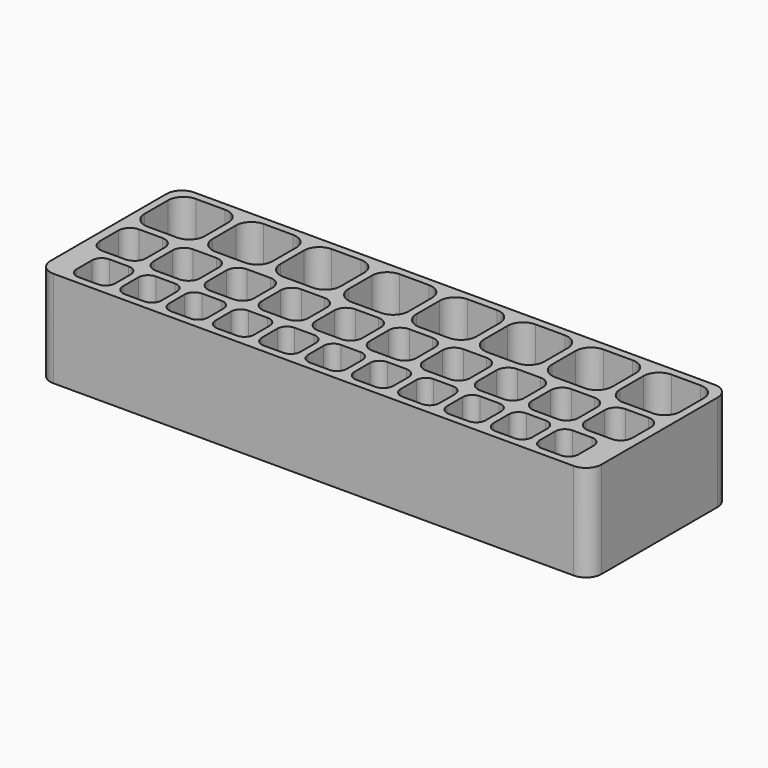
from build123d import *

# Parameters (mm, degrees)
F0_W     = 181.356
F0_H     = 57.912
F0_W_2   = 12.7
F0_H_2   = 12.7
F0_W_3   = 15.24
F0_H_3   = 15.24
F0_W_4   = 19.812
F0_H_4   = 19.812
F1_DEPTH = 31.75
F2_DEPTH = 25.4
F3_R     = 5.08
F4_R     = 3.81
F5_R     = 3.175
F6_R     = 2.54
F7_R     = 5.08


with BuildPart() as f1:
    # F0 (on Top) → F1 (new body)
    with BuildSketch(Plane.XY):
        Rectangle(F0_W, F0_H)
        with Locations((-76.2, -20.066)):
            Rectangle(F0_W_2, F0_H_2, mode=Mode.SUBTRACT)
        with Locations((-60.96, -20.066)):
            Rectangle(F0_W_2, F0_H_2, mode=Mode.SUBTRACT)
        with Locations((-45.72, -20.066)):
            Rectangle(F0_W_2, F0_H_2, mode=Mode.SUBTRACT)
        with Locations((-30.48, -20.066)):
            Rectangle(F0_W_2, F0_H_2, mode=Mode.SUBTRACT)
        with Locations((-15.24, -20.066)):
            Rectangle(F0_W_2, F0_H_2, mode=Mode.SUBTRACT)
        with Locations((0, -20.066)):
            Rectangle(F0_W_2, F0_H_2, mode=Mode.SUBTRACT)
        with Locations((-80.01, -3.556)):
            Rectangle(F0_W_3, F0_H_3, mode=Mode.SUBTRACT)
        with Locations((-62.23, -3.556)):
            Rectangle(F0_W_3, F0_H_3, mode=Mode.SUBTRACT)
        with Locations((-44.45, -3.556)):
            Rectangle(F0_W_3, F0_H_3, mode=Mode.SUBTRACT)
        with Locations((-26.67, -3.556)):
            Rectangle(F0_W_3, F0_H_3, mode=Mode.SUBTRACT)
        with Locations((-8.89, -3.556)):
            Rectangle(F0_W_3, F0_H_3, mode=Mode.SUBTRACT)
        with Locations((15.24, -20.066)):
            Rectangle(F0_W_2, F0_H_2, mode=Mode.SUBTRACT)
        with Locations((30.48, -20.066)):
            Rectangle(F0_W_2, F0_H_2, mode=Mode.SUBTRACT)
        with Locations((45.72, -20.066)):
            Rectangle(F0_W_2, F0_H_2, mode=Mode.SUBTRACT)
        with Locations((60.96, -20.066)):
            Rectangle(F0_W_2, F0_H_2, mode=Mode.SUBTRACT)
        with Locations((76.2, -20.066)):
            Rectangle(F0_W_2, F0_H_2, mode=Mode.SUBTRACT)
        with Locations((8.89, -3.556)):
            Rectangle(F0_W_3, F0_H_3, mode=Mode.SUBTRACT)
        with Locations((26.67, -3.556)):
            Rectangle(F0_W_3, F0_H_3, mode=Mode.SUBTRACT)
        with Locations((44.45, -3.556)):
            Rectangle(F0_W_3, F0_H_3, mode=Mode.SUBTRACT)
        with Locations((62.23, -3.556)):
            Rectangle(F0_W_3, F0_H_3, mode=Mode.SUBTRACT)
        with Locations((80.01, -3.556)):
            Rectangle(F0_W_3, F0_H_3, mode=Mode.SUBTRACT)
        with Locations((-78.232, 16.51)):
            Rectangle(F0_W_4, F0_H_4, mode=Mode.SUBTRACT)
        with Locations((-55.88, 16.51)):
            Rectangle(F0_W_4, F0_H_4, mode=Mode.SUBTRACT)
        with Locations((-33.528, 16.51)):
            Rectangle(F0_W_4, F0_H_4, mode=Mode.SUBTRACT)
        with Locations((-11.176, 16.51)):
            Rectangle(F0_W_4, F0_H_4, mode=Mode.SUBTRACT)
        with Locations((11.176, 16.51)):
            Rectangle(F0_W_4, F0_H_4, mode=Mode.SUBTRACT)
        with Locations((33.528, 16.51)):
            Rectangle(F0_W_4, F0_H_4, mode=Mode.SUBTRACT)
        with Locations((55.88, 16.51)):
            Rectangle(F0_W_4, F0_H_4, mode=Mode.SUBTRACT)
        with Locations((78.232, 16.51)):
            Rectangle(F0_W_4, F0_H_4, mode=Mode.SUBTRACT)
        with Locations((-78.232, 16.51)):
            Rectangle(F0_W_4, F0_H_4)
        with Locations((-55.88, 16.51)):
            Rectangle(F0_W_4, F0_H_4)
        with Locations((-33.528, 16.51)):
            Rectangle(F0_W_4, F0_H_4)
        with Locations((-11.176, 16.51)):
            Rectangle(F0_W_4, F0_H_4)
        with Locations((11.176, 16.51)):
            Rectangle(F0_W_4, F0_H_4)
        with Locations((33.528, 16.51)):
            Rectangle(F0_W_4, F0_H_4)
        with Locations((55.88, 16.51)):
            Rectangle(F0_W_4, F0_H_4)
        with Locations((78.232, 16.51)):
            Rectangle(F0_W_4, F0_H_4)
        with Locations((-80.01, -3.556)):
            Rectangle(F0_W_3, F0_H_3)
        with Locations((-62.23, -3.556)):
            Rectangle(F0_W_3, F0_H_3)
        with Locations((-44.45, -3.556)):
            Rectangle(F0_W_3, F0_H_3)
        with Locations((-26.67, -3.556)):
            Rectangle(F0_W_3, F0_H_3)
        with Locations((-8.89, -3.556)):
            Rectangle(F0_W_3, F0_H_3)
        with Locations((8.89, -3.556)):
            Rectangle(F0_W_3, F0_H_3)
        with Locations((26.67, -3.556)):
            Rectangle(F0_W_3, F0_H_3)
        with Locations((44.45, -3.556)):
            Rectangle(F0_W_3, F0_H_3)
        with Locations((62.23, -3.556)):
            Rectangle(F0_W_3, F0_H_3)
        with Locations((80.01, -3.556)):
            Rectangle(F0_W_3, F0_H_3)
        with Locations((-76.2, -20.066)):
            Rectangle(F0_W_2, F0_H_2)
        with Locations((-60.96, -20.066)):
            Rectangle(F0_W_2, F0_H_2)
        with Locations((-45.72, -20.066)):
            Rectangle(F0_W_2, F0_H_2)
        with Locations((-30.48, -20.066)):
            Rectangle(F0_W_2, F0_H_2)
        with Locations((-15.24, -20.066)):
            Rectangle(F0_W_2, F0_H_2)
        with Locations((0, -20.066)):
            Rectangle(F0_W_2, F0_H_2)
        with Locations((15.24, -20.066)):
            Rectangle(F0_W_2, F0_H_2)
        with Locations((30.48, -20.066)):
            Rectangle(F0_W_2, F0_H_2)
        with Locations((45.72, -20.066)):
            Rectangle(F0_W_2, F0_H_2)
        with Locations((60.96, -20.066)):
            Rectangle(F0_W_2, F0_H_2)
        with Locations((76.2, -20.066)):
            Rectangle(F0_W_2, F0_H_2)
    extrude(amount=-F1_DEPTH)

    # F0 (on Top) → F2 (cut)
    with BuildSketch(Plane.XY):
        with Locations((-76.2, -20.066)):
            Rectangle(F0_W_2, F0_H_2)
        with Locations((-60.96, -20.066)):
            Rectangle(F0_W_2, F0_H_2)
        with Locations((-80.01, -3.556)):
            Rectangle(F0_W_3, F0_H_3)
        with Locations((-62.23, -3.556)):
            Rectangle(F0_W_3, F0_H_3)
        with Locations((-44.45, -3.556)):
            Rectangle(F0_W_3, F0_H_3)
        with Locations((-45.72, -20.066)):
            Rectangle(F0_W_2, F0_H_2)
        with Locations((-30.48, -20.066)):
            Rectangle(F0_W_2, F0_H_2)
        with Locations((-15.24, -20.066)):
            Rectangle(F0_W_2, F0_H_2)
        with Locations((-26.67, -3.556)):
            Rectangle(F0_W_3, F0_H_3)
        with Locations((-8.89, -3.556)):
            Rectangle(F0_W_3, F0_H_3)
        with Locations((0, -20.066)):
            Rectangle(F0_W_2, F0_H_2)
        with Locations((15.24, -20.066)):
            Rectangle(F0_W_2, F0_H_2)
        with Locations((8.89, -3.556)):
            Rectangle(F0_W_3, F0_H_3)
        with Locations((26.67, -3.556)):
            Rectangle(F0_W_3, F0_H_3)
        with Locations((30.48, -20.066)):
            Rectangle(F0_W_2, F0_H_2)
        with Locations((45.72, -20.066)):
            Rectangle(F0_W_2, F0_H_2)
        with Locations((44.45, -3.556)):
            Rectangle(F0_W_3, F0_H_3)
        with Locations((62.23, -3.556)):
            Rectangle(F0_W_3, F0_H_3)
        with Locations((60.96, -20.066)):
            Rectangle(F0_W_2, F0_H_2)
        with Locations((76.2, -20.066)):
            Rectangle(F0_W_2, F0_H_2)
        with Locations((80.01, -3.556)):
            Rectangle(F0_W_3, F0_H_3)
        with Locations((78.232, 16.51)):
            Rectangle(F0_W_4, F0_H_4)
        with Locations((55.88, 16.51)):
            Rectangle(F0_W_4, F0_H_4)
        with Locations((33.528, 16.51)):
            Rectangle(F0_W_4, F0_H_4)
        with Locations((11.176, 16.51)):
            Rectangle(F0_W_4, F0_H_4)
        with Locations((-11.176, 16.51)):
            Rectangle(F0_W_4, F0_H_4)
        with Locations((-33.528, 16.51)):
            Rectangle(F0_W_4, F0_H_4)
        with Locations((-55.88, 16.51)):
            Rectangle(F0_W_4, F0_H_4)
        with Locations((-78.232, 16.51)):
            Rectangle(F0_W_4, F0_H_4)
    extrude(amount=-F2_DEPTH, mode=Mode.SUBTRACT)

    # F3
    f3_edges = [f1.edges().sort_by_distance(p)[0] for p in [
        (-21.082, 26.416, -12.7),
        (-43.434, 26.416, -12.7),
        (-65.786, 26.416, -12.7),
        (-88.138, 26.416, -12.7),
        (1.27, 26.416, -12.7),
        (23.622, 26.416, -12.7),
        (45.974, 26.416, -12.7),
        (68.326, 26.416, -12.7),
        (88.138, 26.416, -12.7),
        (65.786, 26.416, -12.7),
        (43.434, 26.416, -12.7),
        (21.082, 26.416, -12.7),
        (-1.27, 26.416, -12.7),
        (-23.622, 26.416, -12.7),
        (-68.326, 26.416, -12.7),
        (-68.326, 6.604, -12.7),
        (-45.974, 6.604, -12.7),
        (-23.622, 6.604, -12.7),
        (-1.27, 6.604, -12.7),
        (21.082, 6.604, -12.7),
        (43.434, 6.604, -12.7),
        (65.786, 6.604, -12.7),
        (88.138, 6.604, -12.7),
        (68.326, 6.604, -12.7),
        (45.974, 6.604, -12.7),
        (23.622, 6.604, -12.7),
        (1.27, 6.604, -12.7),
        (-21.082, 6.604, -12.7),
        (-43.434, 6.604, -12.7),
        (-65.786, 6.604, -12.7),
        (-88.138, 6.604, -12.7),
        (-45.974, 26.416, -12.7),
    ]]
    fillet(f3_edges, radius=F3_R)

    # F4
    f4_edges = [f1.edges().sort_by_distance(p)[0] for p in [
        (-72.39, 4.064, -12.7),
        (-54.61, 4.064, -12.7),
        (-36.83, 4.064, -12.7),
        (-19.05, 4.064, -12.7),
        (-1.27, 4.064, -12.7),
        (16.51, 4.064, -12.7),
        (34.29, 4.064, -12.7),
        (52.07, 4.064, -12.7),
        (69.85, 4.064, -12.7),
        (87.63, 4.064, -12.7),
        (-72.39, -11.176, -12.7),
        (-54.61, -11.176, -12.7),
        (-36.83, -11.176, -12.7),
        (-19.05, -11.176, -12.7),
        (-1.27, -11.176, -12.7),
        (16.51, -11.176, -12.7),
        (34.29, -11.176, -12.7),
        (52.07, -11.176, -12.7),
        (69.85, -11.176, -12.7),
        (87.63, -11.176, -12.7),
        (72.39, -11.176, -12.7),
        (54.61, -11.176, -12.7),
        (36.83, -11.176, -12.7),
        (19.05, -11.176, -12.7),
        (1.27, -11.176, -12.7),
        (-16.51, -11.176, -12.7),
        (-34.29, -11.176, -12.7),
        (-52.07, -11.176, -12.7),
        (-69.85, -11.176, -12.7),
        (-87.63, -11.176, -12.7),
        (-87.63, 4.064, -12.7),
        (-69.85, 4.064, -12.7),
        (-52.07, 4.064, -12.7),
        (-34.29, 4.064, -12.7),
        (-16.51, 4.064, -12.7),
        (1.27, 4.064, -12.7),
        (19.05, 4.064, -12.7),
        (36.83, 4.064, -12.7),
        (54.61, 4.064, -12.7),
        (72.39, 4.064, -12.7),
    ]]
    fillet(f4_edges, radius=F4_R)

    # F5
    f5_edges = [f1.edges().sort_by_distance(p)[0] for p in [
        (-69.85, -13.716, -12.7),
        (-54.61, -13.716, -12.7),
        (-39.37, -13.716, -12.7),
        (-24.13, -13.716, -12.7),
        (-8.89, -13.716, -12.7),
        (6.35, -13.716, -12.7),
        (21.59, -13.716, -12.7),
        (36.83, -13.716, -12.7),
        (52.07, -13.716, -12.7),
        (67.31, -13.716, -12.7),
        (82.55, -13.716, -12.7),
        (82.55, -26.416, -12.7),
        (67.31, -26.416, -12.7),
        (52.07, -26.416, -12.7),
        (36.83, -26.416, -12.7),
        (21.59, -26.416, -12.7),
        (6.35, -26.416, -12.7),
        (-8.89, -26.416, -12.7),
        (-24.13, -26.416, -12.7),
        (-39.37, -26.416, -12.7),
        (-54.61, -26.416, -12.7),
        (-69.85, -26.416, -12.7),
        (-82.55, -26.416, -12.7),
        (-67.31, -26.416, -12.7),
        (-52.07, -26.416, -12.7),
        (-36.83, -26.416, -12.7),
        (-21.59, -26.416, -12.7),
        (-6.35, -26.416, -12.7),
        (8.89, -26.416, -12.7),
        (24.13, -26.416, -12.7),
        (39.37, -26.416, -12.7),
        (54.61, -26.416, -12.7),
        (69.85, -26.416, -12.7),
        (69.85, -13.716, -12.7),
        (54.61, -13.716, -12.7),
        (39.37, -13.716, -12.7),
        (24.13, -13.716, -12.7),
        (8.89, -13.716, -12.7),
        (-6.35, -13.716, -12.7),
        (-21.59, -13.716, -12.7),
        (-36.83, -13.716, -12.7),
        (-52.07, -13.716, -12.7),
        (-67.31, -13.716, -12.7),
        (-82.55, -13.716, -12.7),
    ]]
    fillet(f5_edges, radius=F5_R)

    # F6
    f6_edges = [f1.edges().sort_by_distance(p)[0] for p in [
        (-68.326, 16.51, -25.4),
        (-69.813898, 8.091898, -25.4),
        (-69.813898, 24.928102, -25.4),
        (-78.232, 6.604, -25.4),
        (-78.232, 26.416, -25.4),
        (-86.650102, 8.091898, -25.4),
        (-86.650102, 24.928102, -25.4),
        (-88.138, 16.51, -25.4),
        (-45.974, 16.51, -25.4),
        (-47.461898, 8.091898, -25.4),
        (-47.461898, 24.928102, -25.4),
        (-55.88, 6.604, -25.4),
        (-55.88, 26.416, -25.4),
        (-64.298102, 8.091898, -25.4),
        (-64.298102, 24.928102, -25.4),
        (-65.786, 16.51, -25.4),
        (-23.622, 16.51, -25.4),
        (-25.109898, 8.091898, -25.4),
        (-25.109898, 24.928102, -25.4),
        (-33.528, 6.604, -25.4),
        (-33.528, 26.416, -25.4),
        (-41.946102, 8.091898, -25.4),
        (-41.946102, 24.928102, -25.4),
        (-43.434, 16.51, -25.4),
        (-1.27, 16.51, -25.4),
        (-2.757898, 8.091898, -25.4),
        (-2.757898, 24.928102, -25.4),
        (-11.176, 6.604, -25.4),
        (-11.176, 26.416, -25.4),
        (-19.594102, 8.091898, -25.4),
        (-19.594102, 24.928102, -25.4),
        (-21.082, 16.51, -25.4),
        (21.082, 16.51, -25.4),
        (19.594102, 8.091898, -25.4),
        (19.594102, 24.928102, -25.4),
        (11.176, 6.604, -25.4),
        (11.176, 26.416, -25.4),
        (2.757898, 8.091898, -25.4),
        (2.757898, 24.928102, -25.4),
        (1.27, 16.51, -25.4),
        (43.434, 16.51, -25.4),
        (41.946102, 8.091898, -25.4),
        (41.946102, 24.928102, -25.4),
        (33.528, 6.604, -25.4),
        (33.528, 26.416, -25.4),
        (25.109898, 8.091898, -25.4),
        (25.109898, 24.928102, -25.4),
        (23.622, 16.51, -25.4),
        (65.786, 16.51, -25.4),
        (64.298102, 8.091898, -25.4),
        (64.298102, 24.928102, -25.4),
        (55.88, 6.604, -25.4),
        (55.88, 26.416, -25.4),
        (47.461898, 8.091898, -25.4),
        (47.461898, 24.928102, -25.4),
        (45.974, 16.51, -25.4),
        (88.138, 16.51, -25.4),
        (86.650102, 8.091898, -25.4),
        (86.650102, 24.928102, -25.4),
        (78.232, 6.604, -25.4),
        (78.232, 26.416, -25.4),
        (69.813898, 8.091898, -25.4),
        (69.813898, 24.928102, -25.4),
        (68.326, 16.51, -25.4),
        (87.63, -3.556, -25.4),
        (86.514077, -10.060077, -25.4),
        (86.514077, 2.948077, -25.4),
        (80.01, -11.176, -25.4),
        (80.01, 4.064, -25.4),
        (73.505923, -10.060077, -25.4),
        (73.505923, 2.948077, -25.4),
        (72.39, -3.556, -25.4),
        (69.85, -3.556, -25.4),
        (68.734077, -10.060077, -25.4),
        (68.734077, 2.948077, -25.4),
        (62.23, -11.176, -25.4),
        (62.23, 4.064, -25.4),
        (55.725923, -10.060077, -25.4),
        (55.725923, 2.948077, -25.4),
        (54.61, -3.556, -25.4),
        (52.07, -3.556, -25.4),
        (50.954077, -10.060077, -25.4),
        (50.954077, 2.948077, -25.4),
        (44.45, -11.176, -25.4),
        (44.45, 4.064, -25.4),
        (37.945923, -10.060077, -25.4),
        (37.945923, 2.948077, -25.4),
        (36.83, -3.556, -25.4),
        (34.29, -3.556, -25.4),
        (33.174077, -10.060077, -25.4),
        (33.174077, 2.948077, -25.4),
        (26.67, -11.176, -25.4),
        (26.67, 4.064, -25.4),
        (20.165923, -10.060077, -25.4),
        (20.165923, 2.948077, -25.4),
        (19.05, -3.556, -25.4),
        (16.51, -3.556, -25.4),
        (15.394077, -10.060077, -25.4),
        (15.394077, 2.948077, -25.4),
        (8.89, -11.176, -25.4),
        (8.89, 4.064, -25.4),
        (2.385923, -10.060077, -25.4),
        (2.385923, 2.948077, -25.4),
        (1.27, -3.556, -25.4),
        (-1.27, -3.556, -25.4),
        (-2.385923, -10.060077, -25.4),
        (-2.385923, 2.948077, -25.4),
        (-8.89, -11.176, -25.4),
        (-8.89, 4.064, -25.4),
        (-15.394077, -10.060077, -25.4),
        (-15.394077, 2.948077, -25.4),
        (-16.51, -3.556, -25.4),
        (-19.05, -3.556, -25.4),
        (-20.165923, -10.060077, -25.4),
        (-20.165923, 2.948077, -25.4),
        (-26.67, -11.176, -25.4),
        (-26.67, 4.064, -25.4),
        (-33.174077, -10.060077, -25.4),
        (-33.174077, 2.948077, -25.4),
        (-34.29, -3.556, -25.4),
        (-36.83, -3.556, -25.4),
        (-37.945923, -10.060077, -25.4),
        (-37.945923, 2.948077, -25.4),
        (-44.45, -11.176, -25.4),
        (-44.45, 4.064, -25.4),
        (-50.954077, -10.060077, -25.4),
        (-50.954077, 2.948077, -25.4),
        (-52.07, -3.556, -25.4),
        (-54.61, -3.556, -25.4),
        (-55.725923, -10.060077, -25.4),
        (-55.725923, 2.948077, -25.4),
        (-62.23, -11.176, -25.4),
        (-62.23, 4.064, -25.4),
        (-68.734077, -10.060077, -25.4),
        (-68.734077, 2.948077, -25.4),
        (-69.85, -3.556, -25.4),
        (-80.01, 4.064, -25.4),
        (-73.505923, 2.948077, -25.4),
        (-86.514077, 2.948077, -25.4),
        (-72.39, -3.556, -25.4),
        (-87.63, -3.556, -25.4),
        (-73.505923, -10.060077, -25.4),
        (-86.514077, -10.060077, -25.4),
        (-80.01, -11.176, -25.4),
        (-76.2, -13.716, -25.4),
        (-70.779936, -14.645936, -25.4),
        (-81.620064, -14.645936, -25.4),
        (-69.85, -20.066, -25.4),
        (-82.55, -20.066, -25.4),
        (-70.779936, -25.486064, -25.4),
        (-81.620064, -25.486064, -25.4),
        (-76.2, -26.416, -25.4),
        (-60.96, -13.716, -25.4),
        (-55.539936, -14.645936, -25.4),
        (-66.380064, -14.645936, -25.4),
        (-54.61, -20.066, -25.4),
        (-67.31, -20.066, -25.4),
        (-55.539936, -25.486064, -25.4),
        (-66.380064, -25.486064, -25.4),
        (-60.96, -26.416, -25.4),
        (-45.72, -13.716, -25.4),
        (-40.299936, -14.645936, -25.4),
        (-51.140064, -14.645936, -25.4),
        (-39.37, -20.066, -25.4),
        (-52.07, -20.066, -25.4),
        (-40.299936, -25.486064, -25.4),
        (-51.140064, -25.486064, -25.4),
        (-45.72, -26.416, -25.4),
        (-30.48, -13.716, -25.4),
        (-25.059936, -14.645936, -25.4),
        (-35.900064, -14.645936, -25.4),
        (-24.13, -20.066, -25.4),
        (-36.83, -20.066, -25.4),
        (-25.059936, -25.486064, -25.4),
        (-35.900064, -25.486064, -25.4),
        (-30.48, -26.416, -25.4),
        (-15.24, -13.716, -25.4),
        (-9.819936, -14.645936, -25.4),
        (-20.660064, -14.645936, -25.4),
        (-8.89, -20.066, -25.4),
        (-21.59, -20.066, -25.4),
        (-9.819936, -25.486064, -25.4),
        (-20.660064, -25.486064, -25.4),
        (-15.24, -26.416, -25.4),
        (0, -13.716, -25.4),
        (5.420064, -14.645936, -25.4),
        (-5.420064, -14.645936, -25.4),
        (6.35, -20.066, -25.4),
        (-6.35, -20.066, -25.4),
        (5.420064, -25.486064, -25.4),
        (-5.420064, -25.486064, -25.4),
        (0, -26.416, -25.4),
        (15.24, -13.716, -25.4),
        (20.660064, -14.645936, -25.4),
        (9.819936, -14.645936, -25.4),
        (21.59, -20.066, -25.4),
        (8.89, -20.066, -25.4),
        (20.660064, -25.486064, -25.4),
        (9.819936, -25.486064, -25.4),
        (15.24, -26.416, -25.4),
        (30.48, -13.716, -25.4),
        (35.900064, -14.645936, -25.4),
        (25.059936, -14.645936, -25.4),
        (36.83, -20.066, -25.4),
        (24.13, -20.066, -25.4),
        (35.900064, -25.486064, -25.4),
        (25.059936, -25.486064, -25.4),
        (30.48, -26.416, -25.4),
        (45.72, -13.716, -25.4),
        (51.140064, -14.645936, -25.4),
        (40.299936, -14.645936, -25.4),
        (52.07, -20.066, -25.4),
        (39.37, -20.066, -25.4),
        (51.140064, -25.486064, -25.4),
        (40.299936, -25.486064, -25.4),
        (45.72, -26.416, -25.4),
        (60.96, -13.716, -25.4),
        (66.380064, -14.645936, -25.4),
        (55.539936, -14.645936, -25.4),
        (67.31, -20.066, -25.4),
        (54.61, -20.066, -25.4),
        (66.380064, -25.486064, -25.4),
        (55.539936, -25.486064, -25.4),
        (60.96, -26.416, -25.4),
        (76.2, -13.716, -25.4),
        (81.620064, -14.645936, -25.4),
        (70.779936, -14.645936, -25.4),
        (82.55, -20.066, -25.4),
        (69.85, -20.066, -25.4),
        (81.620064, -25.486064, -25.4),
        (70.779936, -25.486064, -25.4),
        (76.2, -26.416, -25.4),
    ]]
    fillet(f6_edges, radius=F6_R)

    # F7
    f7_edges = [f1.edges().sort_by_distance(p)[0] for p in [
        (-90.678, -28.956, -15.875),
        (90.678, -28.956, -15.875),
        (90.678, 28.956, -15.875),
        (-90.678, 28.956, -15.875),
    ]]
    fillet(f7_edges, radius=F7_R)


solid = f1.part
